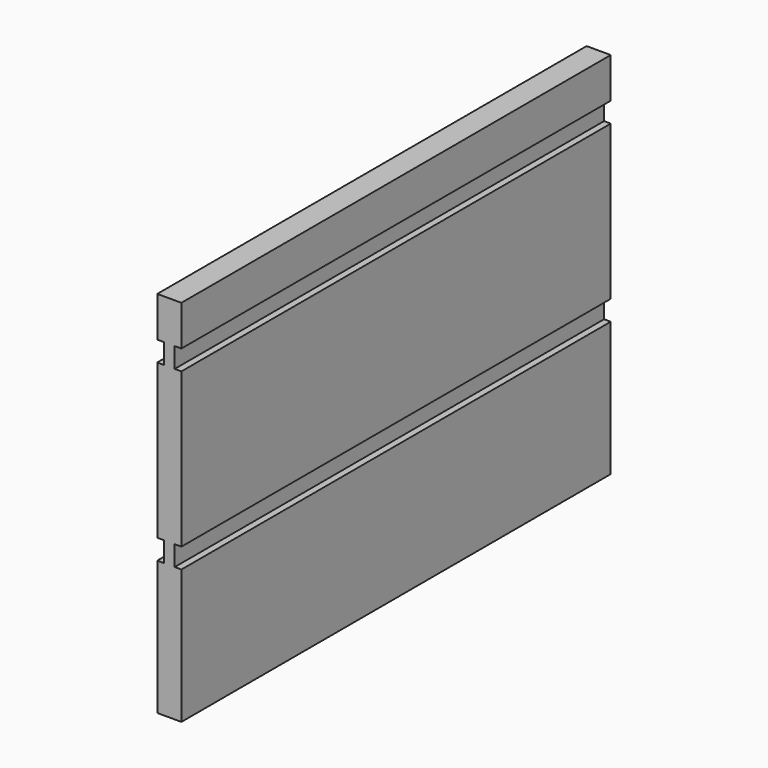
from build123d import *

# Parameters (mm, degrees)
F0_W     = 18
F0_H     = 275
F1_DEPTH = 400
F2_W     = 5
F2_H     = 15
F3_DEPTH = 400.001


with BuildPart() as f1:
    # F0 (on Front) → F1 (new body)
    with BuildSketch(Plane.XZ):
        with Locations((9, 137.5)):
            Rectangle(F0_W, F0_H)
    extrude(amount=-F1_DEPTH)

    # F2 (on face) → F3 (cut, through all)
    with BuildSketch(Plane.XZ):
        with Locations((15.5, 237.5)):
            Rectangle(F2_W, F2_H)
        with Locations((15.5, 107.5)):
            Rectangle(F2_W, F2_H)
        with Locations((2.5, 237.5)):
            Rectangle(F2_W, F2_H)
        with Locations((2.5, 107.5)):
            Rectangle(F2_W, F2_H)
    extrude(amount=-F3_DEPTH, mode=Mode.SUBTRACT)


solid = f1.part
